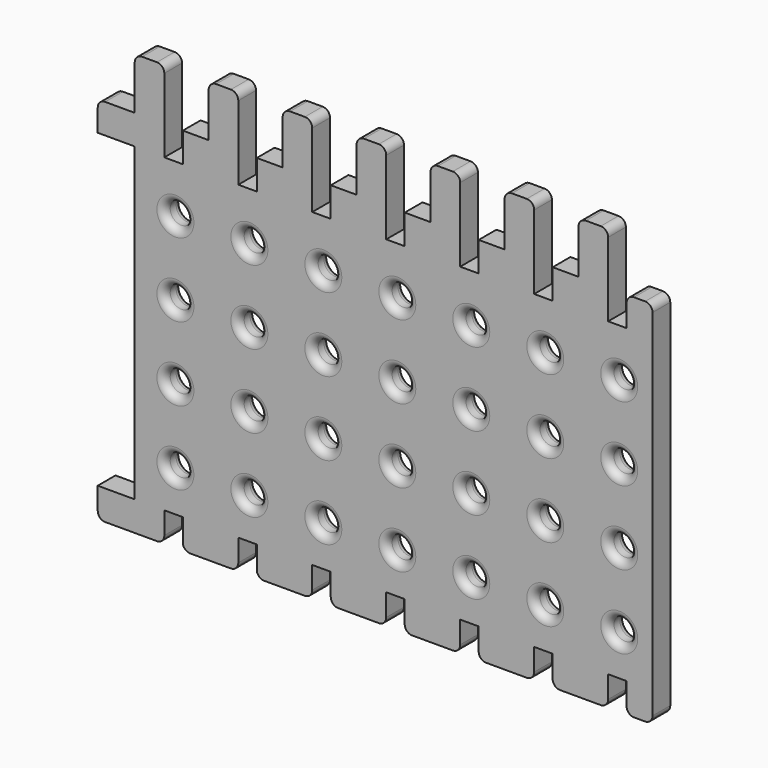
from build123d import *

# Parameters (mm, degrees)
F0_R     = 1.5
F1_DEPTH = 3
F2_R     = 1


with BuildPart() as f1:
    # F0 (on Front) → F1 (new body)
    with BuildSketch(Plane.XZ):
        Polygon((34, -25), (37.5, -25), (37.5, 25), (34, 25), (34, 21), (31.5, 21), (31.5, 25), (31.5, 32), (27.5, 32), (27.5, 25), (24, 25), (24, 21), (21.5, 21), (21.5, 25), (21.5, 32), (17.5, 32), (17.5, 25), (14, 25), (14, 21), (11.5, 21), (11.5, 25), (11.5, 32), (7.5, 32), (7.5, 25), (4, 25), (4, 21), (1.5, 21), (1.5, 25), (1.5, 32), (-2.5, 32), (-2.5, 25), (-6, 25), (-6, 21), (-8.5, 21), (-8.5, 25), (-8.5, 32), (-12.5, 32), (-12.5, 25), (-16, 25), (-16, 21), (-18.5, 21), (-18.5, 25), (-18.5, 32), (-22.5, 32), (-22.5, 25), (-26, 25), (-26, 21), (-28.5, 21), (-28.5, 25), (-28.5, 32), (-32.5, 32), (-32.5, 25), (-37.5, 25), (-37.5, 21), (-32.5, 21), (-32.5, -21), (-37.5, -21), (-37.5, -25), (-28.5, -25), (-28.5, -21), (-26, -21), (-26, -25), (-18.5, -25), (-18.5, -21), (-16, -21), (-16, -25), (-8.5, -25), (-8.5, -21), (-6, -21), (-6, -25), (1.5, -25), (1.5, -21), (4, -21), (4, -25), (11.5, -25), (11.5, -21), (14, -21), (14, -25), (21.5, -25), (21.5, -21), (24, -21), (24, -25), (31.5, -25), (31.5, -21), (34, -21), align=None)
        with Locations((-27, -15.494515)):
            Circle(F0_R, mode=Mode.SUBTRACT)
        with Locations((-17, -15.494515)):
            Circle(F0_R, mode=Mode.SUBTRACT)
        with Locations((-7, -15.494515)):
            Circle(F0_R, mode=Mode.SUBTRACT)
        with Locations((-27, -5.494515)):
            Circle(F0_R, mode=Mode.SUBTRACT)
        with Locations((-17, -5.494515)):
            Circle(F0_R, mode=Mode.SUBTRACT)
        with Locations((-7, -5.494515)):
            Circle(F0_R, mode=Mode.SUBTRACT)
        with Locations((3, -15.494515)):
            Circle(F0_R, mode=Mode.SUBTRACT)
        with Locations((13, -15.494515)):
            Circle(F0_R, mode=Mode.SUBTRACT)
        with Locations((23, -15.494515)):
            Circle(F0_R, mode=Mode.SUBTRACT)
        with Locations((33, -15.494515)):
            Circle(F0_R, mode=Mode.SUBTRACT)
        with Locations((3, -5.494515)):
            Circle(F0_R, mode=Mode.SUBTRACT)
        with Locations((13, -5.494515)):
            Circle(F0_R, mode=Mode.SUBTRACT)
        with Locations((23, -5.494515)):
            Circle(F0_R, mode=Mode.SUBTRACT)
        with Locations((33, -5.494515)):
            Circle(F0_R, mode=Mode.SUBTRACT)
        with Locations((-27, 4.505485)):
            Circle(F0_R, mode=Mode.SUBTRACT)
        with Locations((-27, 14.505485)):
            Circle(F0_R, mode=Mode.SUBTRACT)
        with Locations((-17, 4.505485)):
            Circle(F0_R, mode=Mode.SUBTRACT)
        with Locations((-7, 4.505485)):
            Circle(F0_R, mode=Mode.SUBTRACT)
        with Locations((-17, 14.505485)):
            Circle(F0_R, mode=Mode.SUBTRACT)
        with Locations((-7, 14.505485)):
            Circle(F0_R, mode=Mode.SUBTRACT)
        with Locations((3, 4.505485)):
            Circle(F0_R, mode=Mode.SUBTRACT)
        with Locations((13, 4.505485)):
            Circle(F0_R, mode=Mode.SUBTRACT)
        with Locations((3, 14.505485)):
            Circle(F0_R, mode=Mode.SUBTRACT)
        with Locations((13, 14.505485)):
            Circle(F0_R, mode=Mode.SUBTRACT)
        with Locations((23, 4.505485)):
            Circle(F0_R, mode=Mode.SUBTRACT)
        with Locations((33, 4.505485)):
            Circle(F0_R, mode=Mode.SUBTRACT)
        with Locations((23, 14.505485)):
            Circle(F0_R, mode=Mode.SUBTRACT)
        with Locations((33, 14.505485)):
            Circle(F0_R, mode=Mode.SUBTRACT)
    extrude(amount=F1_DEPTH)

    # F2
    f2_edges = [f1.edges().sort_by_distance(p)[0] for p in [
        (-28.5, -1.5, -25),
        (-26, -1.5, -25),
        (-18.5, -1.5, -25),
        (-16, -1.5, -25),
        (-8.5, -1.5, -25),
        (-6, -1.5, -25),
        (1.5, -1.5, -25),
        (4, -1.5, -25),
        (11.5, -1.5, -25),
        (14, -1.5, -25),
        (21.5, -1.5, -25),
        (24, -1.5, -25),
        (31.5, -1.5, -25),
        (34, -1.5, -25),
        (37.5, -1.5, -25),
        (-37.5, -1.5, -25),
        (31.5, -1.5, 32),
        (27.5, -1.5, 32),
        (37.5, -1.5, 25),
        (34, -1.5, 25),
        (21.5, -1.5, 32),
        (17.5, -1.5, 32),
        (11.5, -1.5, 32),
        (7.5, -1.5, 32),
        (1.5, -1.5, 32),
        (-2.5, -1.5, 32),
        (-8.5, -1.5, 32),
        (-12.5, -1.5, 32),
        (-18.5, -1.5, 32),
        (-22.5, -1.5, 32),
        (-28.5, -1.5, 32),
        (-32.5, -1.5, 32),
        (-37.5, -1.5, 25),
        (31.5, 0, 14.505485),
        (31.5, -3, 14.505485),
        (31.5, -3, 4.505485),
        (31.5, -3, -5.494515),
        (31.5, -3, -15.494515),
        (21.5, -3, -5.494515),
        (21.5, -3, -15.494515),
        (21.5, -3, 4.505485),
        (21.5, -3, 14.505485),
        (11.5, -3, 14.505485),
        (11.5, -3, 4.505485),
        (11.5, -3, -5.494515),
        (11.5, -3, -15.494515),
        (1.5, -3, 14.505485),
        (1.5, -3, 4.505485),
        (1.5, -3, -5.494515),
        (1.5, -3, -15.494515),
        (-8.5, -3, 14.505485),
        (-8.5, -3, 4.505485),
        (-8.5, -3, -5.494515),
        (-8.5, -3, -15.494515),
        (-18.5, -3, 14.505485),
        (-18.5, -3, 4.505485),
        (-18.5, -3, -5.494515),
        (-18.5, -3, -15.494515),
        (-28.5, -3, 14.505485),
        (-28.5, -3, 4.505485),
        (-28.5, -3, -5.494515),
        (-28.5, -3, -15.494515),
        (31.5, 0, -15.494515),
        (31.5, 0, -5.494515),
        (31.5, 0, 4.505485),
        (21.5, 0, -15.494515),
        (21.5, 0, -5.494515),
        (21.5, 0, 4.505485),
        (21.5, 0, 14.505485),
        (11.5, 0, 14.505485),
        (11.5, 0, 4.505485),
        (11.5, 0, -5.494515),
        (11.5, 0, -15.494515),
        (1.5, 0, -15.494515),
        (1.5, 0, -5.494515),
        (1.5, 0, 4.505485),
        (1.5, 0, 14.505485),
        (-8.5, 0, -15.494515),
        (-8.5, 0, -5.494515),
        (-8.5, 0, 4.505485),
        (-8.5, 0, 14.505485),
        (-18.5, 0, 14.505485),
        (-18.5, 0, 4.505485),
        (-18.5, 0, -5.494515),
        (-18.5, 0, -15.494515),
        (-28.5, 0, -15.494515),
        (-28.5, 0, -5.494515),
        (-28.5, 0, 4.505485),
        (-28.5, 0, 14.505485),
    ]]
    fillet(f2_edges, radius=F2_R)


solid = f1.part
